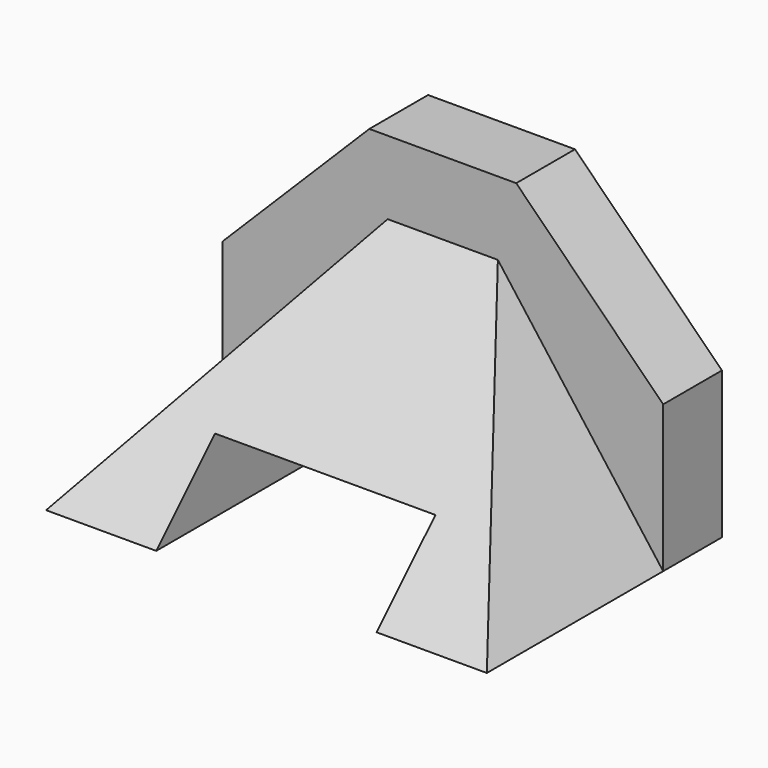
from build123d import *

# Parameters (mm, degrees)
F1_DEPTH = 12.7
F3_DEPTH = 38.1
F4_W     = 38.1
F4_H     = 12.7
F5_DEPTH = 50.801
F7_DEPTH = 76.201


with BuildPart() as f1:
    # F0 (on Front) → F1 (new body)
    with BuildSketch(Plane.XZ):
        Polygon((0, 25.4), (0, 0), (76.2, 0), (76.2, 25.4), (50.8, 50.8), (25.4, 50.8), align=None)
    extrude(amount=F1_DEPTH)

    # F2 (on face) → F3 (join)
    with BuildSketch(Plane.XZ.offset(12.7)):
        Polygon((38.1, 50.8), (0, 0), (76.2, 0), align=None)
    extrude(amount=F3_DEPTH)

    # F4 (on face) → F5 (cut, through all)
    with BuildSketch(Plane(origin=(0, 0, 0), x_dir=(-1, 0, 0), z_dir=(0, 1, 0))):
        with Locations((-38.1, 6.35)):
            Rectangle(F4_W, F4_H)
    extrude(amount=-F5_DEPTH, mode=Mode.SUBTRACT)

    # F6 (on face) → F7 (cut, through all)
    with BuildSketch(Plane.YZ.offset(76.2)):
        Polygon((-12.7, 38.1), (-12.7, 50.8), (-50.8, 50.8), (-50.8, 0), align=None)
    extrude(amount=-F7_DEPTH, mode=Mode.SUBTRACT)


solid = f1.part
